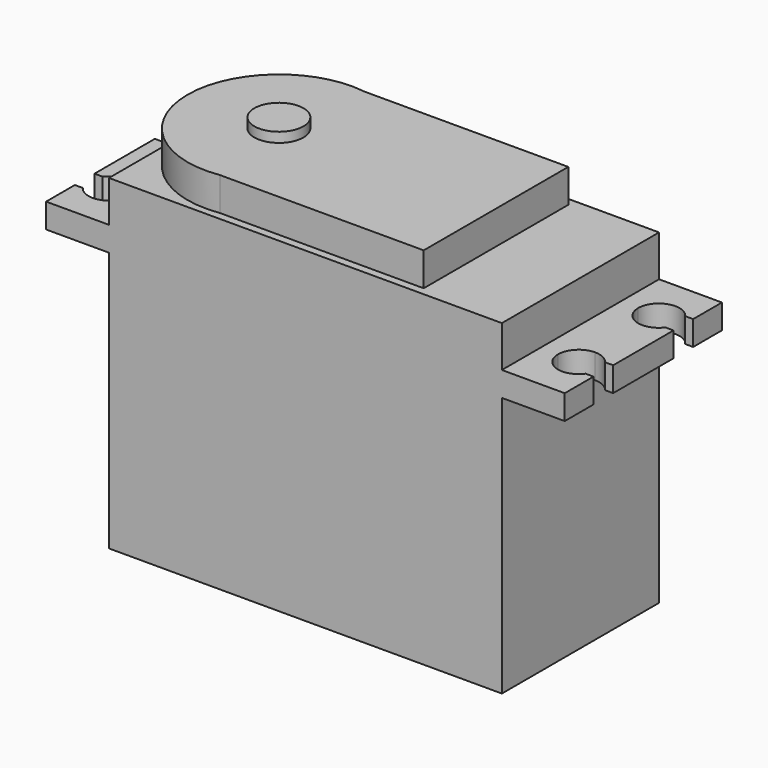
from build123d import *

# Parameters (mm, degrees)
F0_W      = 40
F0_H      = 20
F1_DEPTH  = 26.5
F2_W      = 52.8
F2_H      = 20
F3_DEPTH  = 2.5
F4_W      = 40
F4_H      = 20
F5_DEPTH  = 4.2
F7_DEPTH  = 3.4
F8_R      = 2.5
F9_DEPTH  = 1
F11_DEPTH = 29.001


with BuildPart() as f1:
    # F0 (on Top) → F1 (new body)
    with BuildSketch(Plane.XY):
        Rectangle(F0_W, F0_H)
    extrude(amount=F1_DEPTH)

    # F2 (on face) → F3 (join)
    with BuildSketch(Plane.XY.offset(26.5)):
        Rectangle(F2_W, F2_H)
    extrude(amount=F3_DEPTH)

    # F4 (on face) → F5 (join)
    with BuildSketch(Plane.XY.offset(29)):
        Rectangle(F4_W, F4_H)
    extrude(amount=F5_DEPTH)

    # F6 (on face) → F7 (join)
    with BuildSketch(Plane.XY.offset(33.2)):
        with BuildLine():
            Line((-10.7, 9.2), (-9.3398529491, 9.2))
            ThreePointArc((-9.3398529491, 9.2), (-16.7762090282, 7.0405741134), (-20, 1.29e-08))
            ThreePointArc((-20, 1.29e-08), (-16.7762090379, -7.040574105), (-9.3398529491, -9.2))
            Line((-9.3398529491, -9.2), (-10.7, -9.2))
            Line((-10.7, -9.2), (-10.7, 9.2))
        make_face()
        with BuildLine():
            ThreePointArc((-9.3398529491, -9.2), (-3.6594258908, -6.0762090331), (-1.4, 0))
            ThreePointArc((-1.4, 0), (-3.6594258908, 6.0762090331), (-9.3398529491, 9.2))
            Line((-9.3398529491, 9.2), (-10.7, 9.2))
            Line((-10.7, 9.2), (-10.7, -9.2))
            Line((-10.7, -9.2), (-9.3398529491, -9.2))
        make_face()
        with BuildLine():
            ThreePointArc((-9.3398529491, 9.2), (-3.6594258908, 6.0762090331), (-1.4, 0))
            ThreePointArc((-1.4, 0), (-3.6594258908, -6.0762090331), (-9.3398529491, -9.2))
            Line((-9.3398529491, -9.2), (11.4008062363, -9.2))
            Line((11.4008062363, -9.2), (11.4008062363, 9.2))
            Line((11.4008062363, 9.2), (-9.3398529491, 9.2))
        make_face()
    extrude(amount=F7_DEPTH)

    # F8 (on face) → F9 (join)
    with BuildSketch(Plane.XY.offset(36.6)):
        with Locations((-10.7, 0)):
            Circle(F8_R)
    extrude(amount=F9_DEPTH)

    # F10 (on face) → F11 (cut, through all)
    with BuildSketch(Plane.XY.offset(29)):
        with BuildLine():
            Line((-23.9, 3), (-23.9, 5.1))
            Line((-23.9, 5.1), (-21.8, 5.1))
            ThreePointArc((-21.8, 5.1), (-23.2478597857, 7.0961746268), (-25.594964896, 6.3397959514))
            Line((-25.594964896, 6.3397959514), (-24.7499752088, 6.3397959514))
            Line((-24.7499752088, 6.3397959514), (-24.7499752088, 3.8397959514))
            Line((-24.7499752088, 3.8397959514), (-25.5798469442, 3.8397959514))
            ThreePointArc((-25.5798469442, 3.8397959514), (-24.839034477, 3.2216458665), (-23.9, 3))
        make_face()
        with BuildLine():
            Line((-21.8, 5.1), (-23.9, 5.1))
            Line((-23.9, 5.1), (-23.9, 3))
            ThreePointArc((-23.9, 3), (-22.4150757595, 3.6150757595), (-21.8, 5.1))
        make_face()
        with BuildLine():
            Line((-24.7499752088, 6.3397959514), (-25.594964896, 6.3397959514))
            ThreePointArc((-25.594964896, 6.3397959514), (-25.9999616042, 5.0873011527), (-25.5798469442, 3.8397959514))
            Line((-25.5798469442, 3.8397959514), (-24.7499752088, 3.8397959514))
            Line((-24.7499752088, 3.8397959514), (-24.7499752088, 6.3397959514))
        make_face()
        with BuildLine():
            Line((-23.9, -5.1), (-23.9, -3))
            ThreePointArc((-23.9, -3), (-24.839034477, -3.2216458665), (-25.5798469442, -3.8397959514))
            Line((-25.5798469442, -3.8397959514), (-24.7499752088, -3.8397959514))
            Line((-24.7499752088, -3.8397959514), (-24.7499752088, -6.3397959514))
            Line((-24.7499752088, -6.3397959514), (-25.594964896, -6.3397959514))
            ThreePointArc((-25.594964896, -6.3397959514), (-23.2478597857, -7.0961746268), (-21.8, -5.1))
            Line((-21.8, -5.1), (-23.9, -5.1))
        make_face()
        with BuildLine():
            ThreePointArc((-21.8, -5.1), (-22.4150757595, -3.6150757595), (-23.9, -3))
            Line((-23.9, -3), (-23.9, -5.1))
            Line((-23.9, -5.1), (-21.8, -5.1))
        make_face()
        with BuildLine():
            Line((-24.7499752088, -3.8397959514), (-25.5798469442, -3.8397959514))
            ThreePointArc((-25.5798469442, -3.8397959514), (-25.9999616042, -5.0873011527), (-25.594964896, -6.3397959514))
            Line((-25.594964896, -6.3397959514), (-24.7499752088, -6.3397959514))
            Line((-24.7499752088, -6.3397959514), (-24.7499752088, -3.8397959514))
        make_face()
        with BuildLine():
            ThreePointArc((26, 5.1), (25.8961746268, 5.7521402143), (25.594964896, 6.3397959514))
            Line((25.594964896, 6.3397959514), (24.7499752088, 6.3397959514))
            Line((24.7499752088, 6.3397959514), (24.7499752088, 3.8397959514))
            Line((24.7499752088, 3.8397959514), (25.5798469442, 3.8397959514))
            ThreePointArc((25.5798469442, 3.8397959514), (25.8921945918, 4.4358007012), (26, 5.1))
        make_face()
        with BuildLine():
            ThreePointArc((25.594964896, 6.3397959514), (23.2478597857, 7.0961746268), (21.8, 5.1))
            Line((21.8, 5.1), (23.9, 5.1))
            Line((23.9, 5.1), (23.9, 3))
            ThreePointArc((23.9, 3), (24.839034477, 3.2216458665), (25.5798469442, 3.8397959514))
            Line((25.5798469442, 3.8397959514), (24.7499752088, 3.8397959514))
            Line((24.7499752088, 3.8397959514), (24.7499752088, 6.3397959514))
            Line((24.7499752088, 6.3397959514), (25.594964896, 6.3397959514))
        make_face()
        with BuildLine():
            Line((23.9, 5.1), (21.8, 5.1))
            ThreePointArc((21.8, 5.1), (22.4150757595, 3.6150757595), (23.9, 3))
            Line((23.9, 3), (23.9, 5.1))
        make_face()
        with BuildLine():
            Line((27.2499752088, 6.3397959514), (25.594964896, 6.3397959514))
            ThreePointArc((25.594964896, 6.3397959514), (25.8961746268, 5.7521402143), (26, 5.1))
            ThreePointArc((26, 5.1), (25.8921945918, 4.4358007012), (25.5798469442, 3.8397959514))
            Line((25.5798469442, 3.8397959514), (27.2499752088, 3.8397959514))
            Line((27.2499752088, 3.8397959514), (27.2499752088, 6.3397959514))
        make_face()
        with BuildLine():
            ThreePointArc((26, -5.1), (25.8961746268, -5.7521402143), (25.594964896, -6.3397959514))
            Line((25.594964896, -6.3397959514), (27.2499752088, -6.3397959514))
            Line((27.2499752088, -6.3397959514), (27.2499752088, -3.8397959514))
            Line((27.2499752088, -3.8397959514), (25.5798469442, -3.8397959514))
            ThreePointArc((25.5798469442, -3.8397959514), (25.8921945918, -4.4358007012), (26, -5.1))
        make_face()
        with BuildLine():
            Line((23.9, -5.1), (21.8, -5.1))
            ThreePointArc((21.8, -5.1), (23.2478597857, -7.0961746268), (25.594964896, -6.3397959514))
            Line((25.594964896, -6.3397959514), (24.7499752088, -6.3397959514))
            Line((24.7499752088, -6.3397959514), (24.7499752088, -3.8397959514))
            Line((24.7499752088, -3.8397959514), (25.5798469442, -3.8397959514))
            ThreePointArc((25.5798469442, -3.8397959514), (24.839034477, -3.2216458665), (23.9, -3))
            Line((23.9, -3), (23.9, -5.1))
        make_face()
        with BuildLine():
            ThreePointArc((23.9, -3), (22.4150757595, -3.6150757595), (21.8, -5.1))
            Line((21.8, -5.1), (23.9, -5.1))
            Line((23.9, -5.1), (23.9, -3))
        make_face()
        with BuildLine():
            Line((24.7499752088, -6.3397959514), (25.594964896, -6.3397959514))
            ThreePointArc((25.594964896, -6.3397959514), (25.8961746268, -5.7521402143), (26, -5.1))
            ThreePointArc((26, -5.1), (25.8921945918, -4.4358007012), (25.5798469442, -3.8397959514))
            Line((25.5798469442, -3.8397959514), (24.7499752088, -3.8397959514))
            Line((24.7499752088, -3.8397959514), (24.7499752088, -6.3397959514))
        make_face()
        with BuildLine():
            ThreePointArc((-25.594964896, -6.3397959514), (-25.9999616042, -5.0873011527), (-25.5798469442, -3.8397959514))
            Line((-25.5798469442, -3.8397959514), (-26.4, -3.8397959514))
            Line((-26.4, -3.8397959514), (-26.4, -6.3397959514))
            Line((-26.4, -6.3397959514), (-25.594964896, -6.3397959514))
        make_face()
        with BuildLine():
            ThreePointArc((-25.5798469442, 3.8397959514), (-25.9999616042, 5.0873011527), (-25.594964896, 6.3397959514))
            Line((-25.594964896, 6.3397959514), (-26.4, 6.3397959514))
            Line((-26.4, 6.3397959514), (-26.4, 3.8397959514))
            Line((-26.4, 3.8397959514), (-25.5798469442, 3.8397959514))
        make_face()
    extrude(amount=-F11_DEPTH, mode=Mode.SUBTRACT)


solid = f1.part
